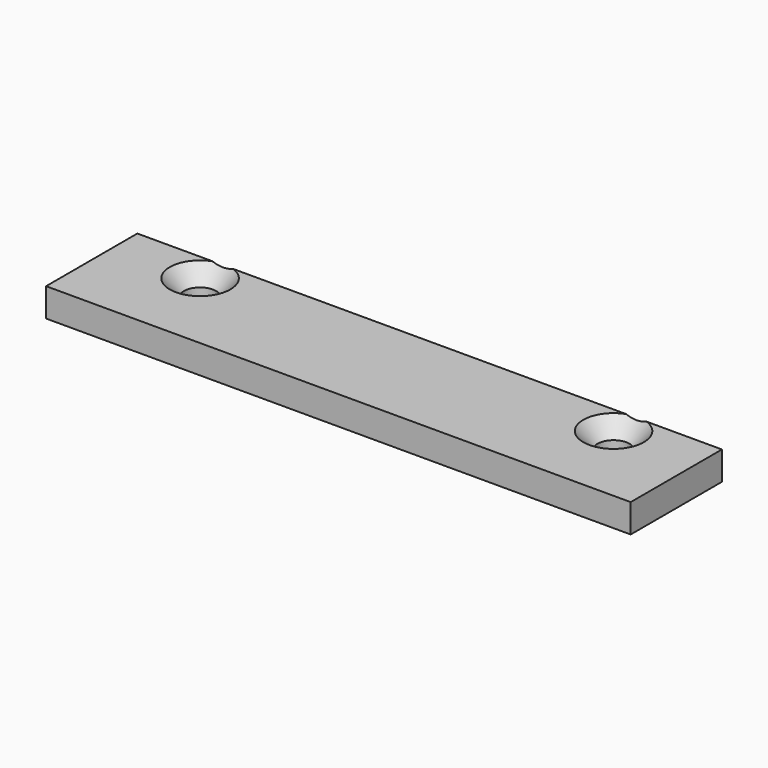
from build123d import *

# Parameters (mm, degrees)
F0_W           = 130.175
F0_H           = 25.4
F1_DEPTH       = 6.35
F2_D           = 7.1374
F2_DEPTH       = 29.6333418
F2_CSINK_D     = 13.4874
F2_CSINK_ANGLE = 82
F2_TIP         = 2.1442912911


with BuildPart() as f1:
    # F0 (on Top) → F1 (new body)
    with BuildSketch(Plane.XY):
        Rectangle(F0_W, F0_H)
    extrude(amount=-F1_DEPTH)

    # F2
    with Locations(Plane.XY):
        with Locations((-46.0375, 6.35), (46.0375, 6.35)):
            CounterSinkHole(F2_D / 2, F2_CSINK_D / 2, depth=F2_DEPTH, counter_sink_angle=F2_CSINK_ANGLE)
            with Locations((0, 0, -(F2_DEPTH + F2_TIP / 2))):  # 118° drill point
                Cone(0, F2_D / 2, F2_TIP, mode=Mode.SUBTRACT)


solid = f1.part
